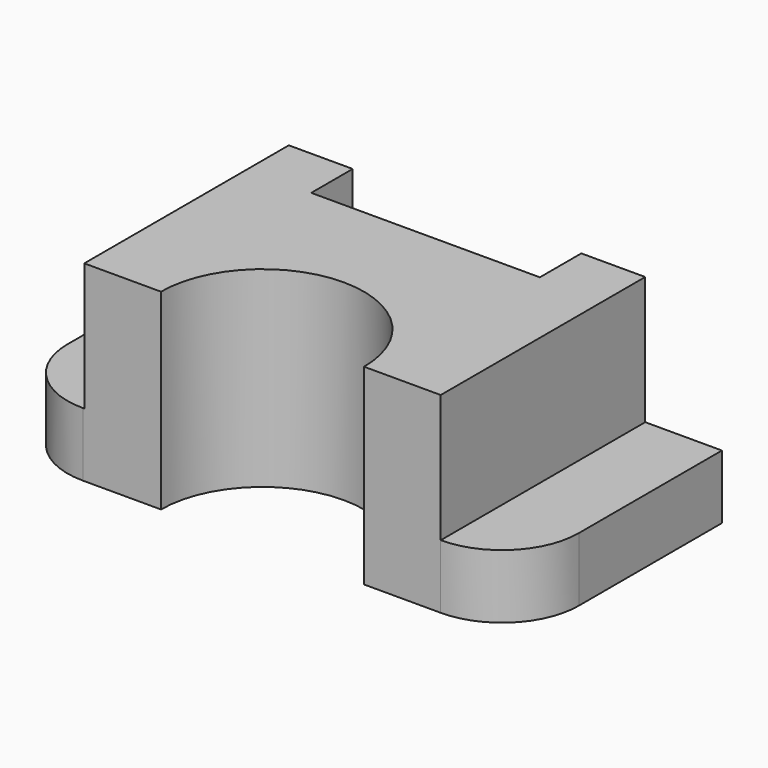
from build123d import *

# Parameters (mm, degrees)
F0_W     = 50.8
F0_H     = 25.4
F1_DEPTH = 6.35
F2_R     = 7.62
F3_W     = 35.415467
F3_H     = 25.4
F4_DEPTH = 12.7
F6_DEPTH = 19.051
F7_W     = 22.715467
F7_H     = 5.149726
F8_DEPTH = 12.7


with BuildPart() as f1:
    # F0 (on Top) → F1 (new body)
    with BuildSketch(Plane.XY):
        with Locations((5.675177, -10.363199)):
            Rectangle(F0_W, F0_H)
    extrude(amount=F1_DEPTH)

    # F2
    f2_edges = [f1.edges().sort_by_distance(p)[0] for p in [
        (-19.724823, -23.063199, 3.175),
        (31.075177, -23.063199, 3.175),
    ]]
    fillet(f2_edges, radius=F2_R)

    # F3 (on face) → F4 (join)
    with BuildSketch(Plane.XY.offset(6.35)):
        with Locations((5.747444, -10.363199)):
            Rectangle(F3_W, F3_H)
    extrude(amount=F4_DEPTH)

    # F5 (on face) → F6 (cut, through all)
    with BuildSketch(Plane.XY.offset(19.05)):
        with BuildLine():
            Line((-4.34029, -23.063199), (15.835177, -23.063199))
            ThreePointArc((15.835177, -23.063199), (5.747443, -12.972925), (-4.34029, -23.063199))
        make_face()
    extrude(amount=-F6_DEPTH, mode=Mode.SUBTRACT)

    # F7 (on face) → F8 (cut)
    with BuildSketch(Plane.XY.offset(19.05)):
        with Locations((5.747443, -0.238062)):
            Rectangle(F7_W, F7_H)
    extrude(amount=-F8_DEPTH, mode=Mode.SUBTRACT)


solid = f1.part
